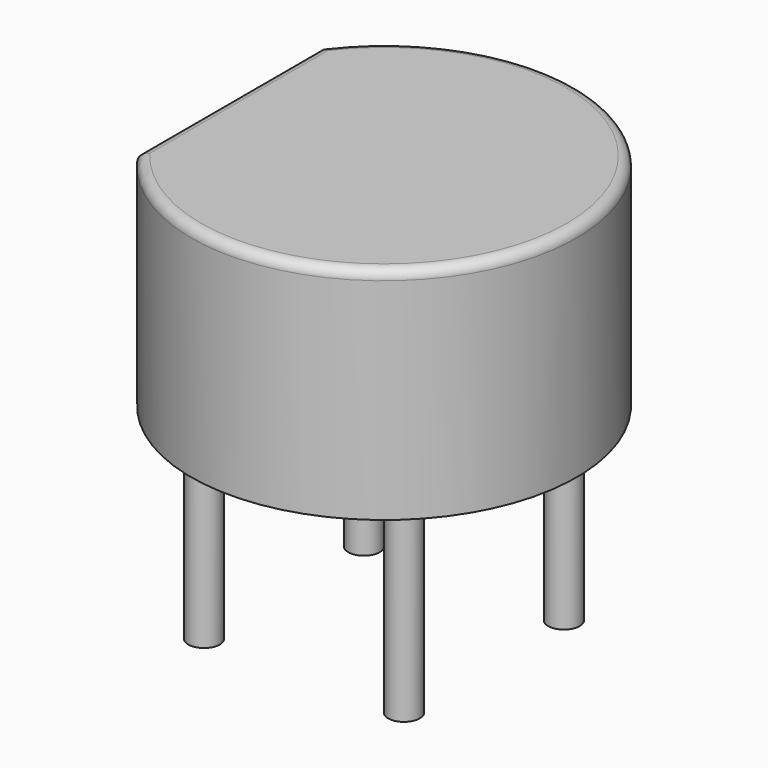
from build123d import *

# Parameters (mm, degrees)
PAD001_DEPTH = 5.6
FILLET_R     = 0.25
SKETCH_R     = 0.4
PAD_DEPTH    = 5


with BuildPart() as fillet_body:
    # Sketch001 → Pad001 (new body)
    with BuildSketch(Plane.XY):
        with BuildLine():
            Line((-1.4, 0.373143), (-1.4, -5.453143))
            ThreePointArc((-1.4, -5.453143), (7.44, -2.54), (-1.4, 0.373143))
        make_face()
    extrude(amount=PAD001_DEPTH)

    # Fillet
    fillet_edges = [fillet_body.edges().sort_by_distance(p)[0] for p in [
        (-1.4, -2.54, 5.6),
        (7.44, -2.54, 5.6),
    ]]
    fillet(fillet_edges, radius=FILLET_R)


with BuildPart() as diode_bridge_round_d9_8mm:
    # Sketch → Pad (new body)
    with BuildSketch(Plane.XY):
        Circle(SKETCH_R)
        with Locations((5.08, 0)):
            Circle(SKETCH_R)
        with Locations((5.08, -5.08)):
            Circle(SKETCH_R)
        with Locations((0, -5.08)):
            Circle(SKETCH_R)
    extrude(amount=-PAD_DEPTH)

    add(fillet_body.part)


solid = diode_bridge_round_d9_8mm.part
